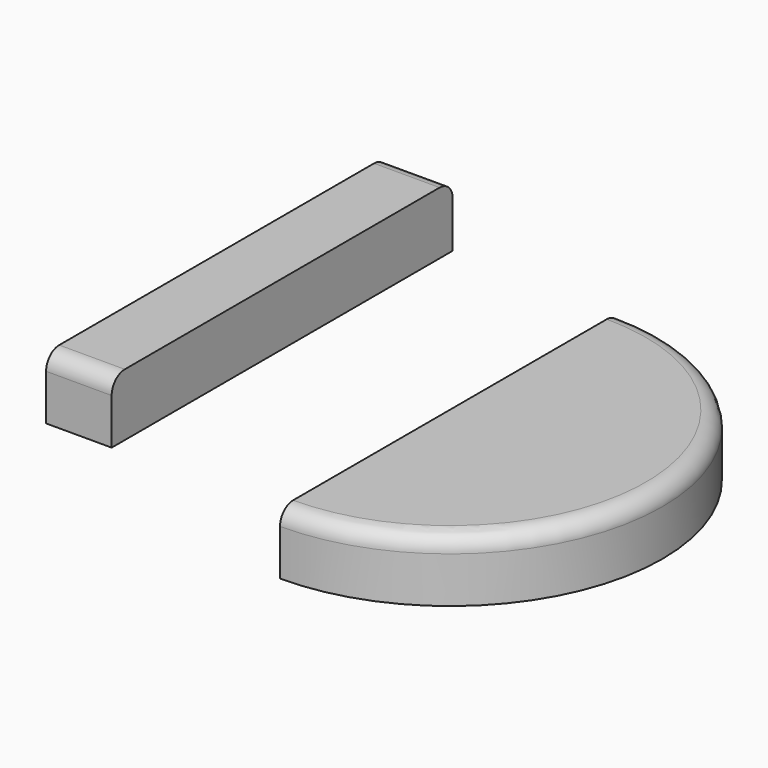
from build123d import *

# Parameters (mm, degrees)
F1_DEPTH = 19
F2_R     = 5
F3_W     = 20
F3_H     = 130
F4_DEPTH = 19
F5_R     = 5


with BuildPart() as f1:
    # F0 (on Top) → F1 (new body)
    with BuildSketch(Plane.XY):
        with BuildLine():
            Line((0, 64.767876), (0, -64.767876))
            ThreePointArc((0, -64.767876), (64.767876, 0), (0, 64.767876))
        make_face()
    extrude(amount=F1_DEPTH)

    # F2
    f2_edges = [f1.edges().sort_by_distance(p)[0] for p in [
        (64.767876, 0, 19),
    ]]
    fillet(f2_edges, radius=F2_R)


with BuildPart() as f4:
    # F3 (on Top) → F4 (new body)
    with BuildSketch(Plane.XY):
        with Locations((-83.482434, 27.915571)):
            Rectangle(F3_W, F3_H)
    extrude(amount=F4_DEPTH)

    # F5
    f5_edges = [f4.edges().sort_by_distance(p)[0] for p in [
        (-83.482434, -37.084429, 19),
        (-83.482434, 92.915571, 19),
    ]]
    fillet(f5_edges, radius=F5_R)


solid = Compound([f1.part, f4.part])
